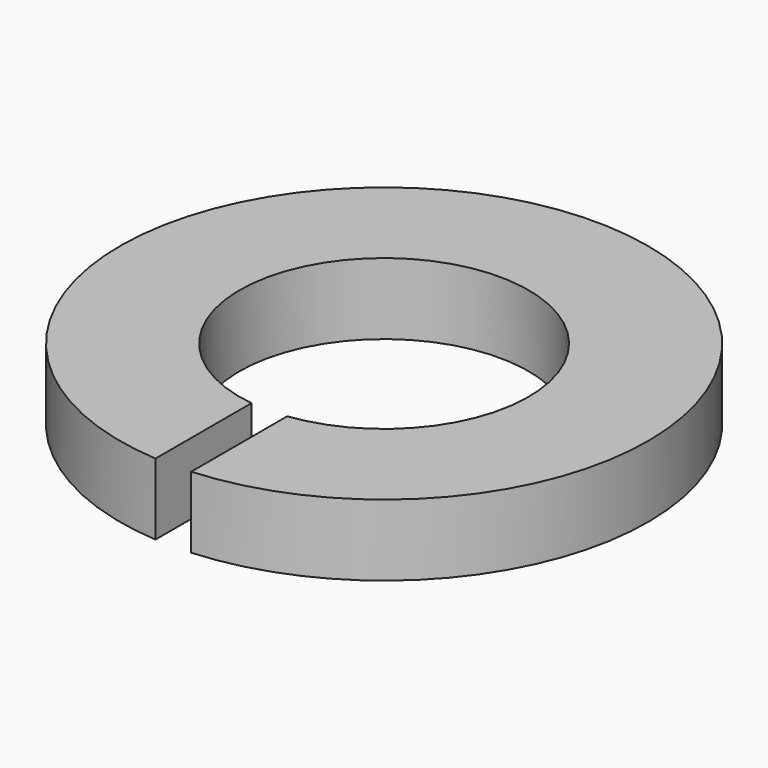
from build123d import *

# Parameters (mm, degrees)
PAD_DEPTH = 1


with BuildPart() as part:
    # Sketch → Pad (new body, symmetric)
    with BuildSketch(Plane.XY):
        with BuildLine():
            ThreePointArc((0.5, -4.019017), (0, 4.05), (-0.5, -4.019017))
            Line((-0.5, -7.383089), (-0.5, -4.019017))
            ThreePointArc((0.5, -7.383089), (0, 7.4), (-0.5, -7.383089))
            Line((0.5, -4.019017), (0.5, -7.383089))
        make_face()
    extrude(amount=PAD_DEPTH, both=True)


solid = part.part
